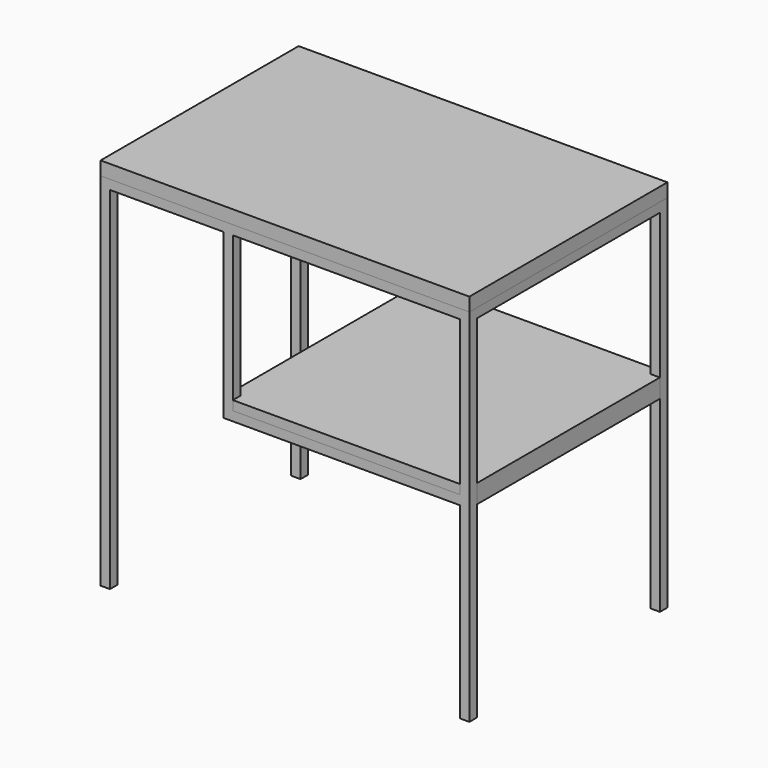
from build123d import *

# Parameters (mm, degrees)
F4_W           = 20
F4_H           = 20
F5_DEPTH       = 771
F6_W           = 20
F6_H           = 20
F7_DEPTH       = 748
F9_W           = 20
F9_H           = 20
F10_DEPTH      = 489
F13_W          = 788
F13_H          = 529
F14_DEPTH      = 29
F14_DEPTH_BACK = 4
F16_W          = 20
F16_H          = 20
F17_DEPTH      = 350
F18_W          = 20
F18_H          = 20
F19_DEPTH      = 485.3333333333
F21_W          = 20
F21_H          = 20
F22_DEPTH      = 489
F23_W          = 525.3333333333
F23_H          = 40
F24_DEPTH      = 529


with BuildPart() as f5:
    # F4 (on Top) → F5 (new body)
    with BuildSketch(Plane.XY):
        with Locations((-384, 254.5)):
            Rectangle(F4_W, F4_H)
    extrude(amount=F5_DEPTH)


with BuildPart() as f5b:
    # F4 (on Top) → F5, piece 2 (new body)
    with BuildSketch(Plane.XY):
        with Locations((384, 254.5)):
            Rectangle(F4_W, F4_H)
    extrude(amount=F5_DEPTH)


with BuildPart() as f5c:
    # F4 (on Top) → F5, piece 3 (new body)
    with BuildSketch(Plane.XY):
        with Locations((384, -254.5)):
            Rectangle(F4_W, F4_H)
    extrude(amount=F5_DEPTH)


with BuildPart() as f5d:
    # F4 (on Top) → F5, piece 4 (new body)
    with BuildSketch(Plane.XY):
        with Locations((-384, -254.5)):
            Rectangle(F4_W, F4_H)
    extrude(amount=F5_DEPTH)


with BuildPart() as f7:
    # F6 (on face) → F7 (new body, through all)
    with BuildSketch(Plane(origin=(374, 0, 0), x_dir=(0, -1, 0), z_dir=(-1, 0, 0))):
        with Locations((-254.5, 761)):
            Rectangle(F6_W, F6_H)
    extrude(amount=F7_DEPTH)


with BuildPart() as f8_1:
    # F8: instance of F7
    add(f7.part.mirror(Plane.XZ))


with BuildPart() as f10:
    # F9 (on face) → F10 (new body, through all)
    with BuildSketch(Plane.XZ.offset(-244.5)):
        with Locations((-384, 761)):
            Rectangle(F9_W, F9_H)
    extrude(amount=F10_DEPTH)


with BuildPart() as f11_1:
    # F11: instance of F10
    add(f10.part.mirror(Plane.YZ))


with BuildPart() as f5_1:
    add(f5.part)

    # F12: union F11_1, F5b, F10, F5c, F8_1, F7, F5d
    add(f11_1.part)
    add(f5b.part)
    add(f10.part)
    add(f5c.part)
    add(f8_1.part)
    add(f7.part)
    add(f5d.part)


with BuildPart() as f14:
    # F13 (on face) → F14 (new body, two sides)
    with BuildSketch(Plane.XY.offset(771)) as f14_sk:
        Rectangle(F13_W, F13_H)
    extrude(amount=F14_DEPTH)
    extrude(f14_sk.sketch, amount=-F14_DEPTH_BACK)

    # F15: cut F5
    add(f5_1.part, mode=Mode.SUBTRACT)


with BuildPart() as f17:
    # F16 (on face) → F17 (new body)
    with BuildSketch(Plane(origin=(0, 0, 751), x_dir=(1, 0, 0), z_dir=(0, 0, -1))):
        with Locations((-121.3333333333, 254.5)):
            Rectangle(F16_W, F16_H)
    extrude(amount=F17_DEPTH)


with BuildPart() as f19:
    # F18 (on face) → F19 (new body, through all)
    with BuildSketch(Plane.YZ.offset(-111.3333333333)):
        with Locations((-254.5, 411)):
            Rectangle(F18_W, F18_H)
    extrude(amount=F19_DEPTH)


with BuildPart() as f5_2:
    add(f5_1.part)

    # F20: F17, F19 across plane
    add(f17.part.mirror(Plane.XZ))
    add(f19.part.mirror(Plane.XZ))

    add(f17.part)  # F22 merges F17

    add(f19.part)  # F22 merges F19
    # F21 (on face) → F22 (join, through all)
    with BuildSketch(Plane.XZ.offset(-244.5)):
        with Locations((-121.3333333333, 411)):
            Rectangle(F21_W, F21_H)
    extrude(amount=F22_DEPTH)


with BuildPart() as f24:
    # F23 (on face) → F24 (new body)
    with BuildSketch(Plane.XZ.offset(264.5)):
        with Locations((131.3333333333, 421)):
            Rectangle(F23_W, F23_H)
    extrude(amount=-F24_DEPTH)

    # F25: cut F5
    add(f5_2.part, mode=Mode.SUBTRACT)


solid = Compound([f14.part, f5_2.part, f24.part])
